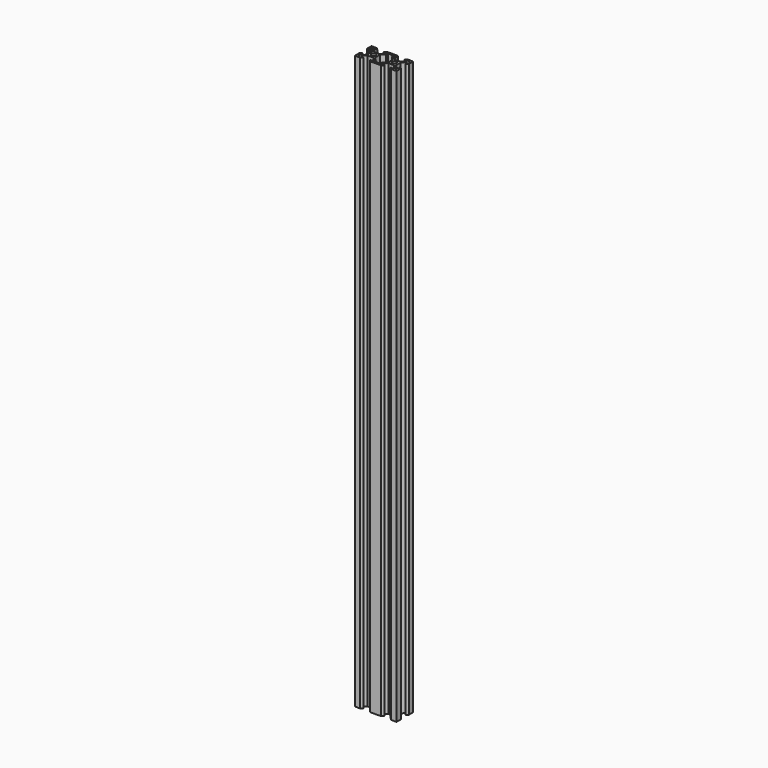
from build123d import *

# Parameters (mm, degrees)
F1_DEPTH = 1500
F3_DEPTH = 1500.001
F4_R     = 2.1
F5_DEPTH = 1500.001
F6_DEPTH = 950


with BuildPart() as f1:
    # F0 (on Top) → F1 (new body)
    with BuildSketch(Plane.XY):
        Polygon((0, 5.2), (0, 0), (5.2, 0), (7, 1.8), (4.4, 1.8), (4.4, 3.44), (7.16, 6.2), (12.84, 6.2), (15.6, 3.44), (15.6, 1.8), (13, 1.8), (14.8, 0), (25.2, 0), (27, 1.8), (24.4, 1.8), (24.4, 3.44), (27.16, 6.2), (32.84, 6.2), (35.6, 3.44), (35.6, 1.8), (33, 1.8), (34.8, 0), (40, 0), (40, 5.2), (38.2, 7), (38.2, 4.4), (36.56, 4.4), (33.8, 7.16), (33.8, 12.84), (36.56, 15.6), (38.2, 15.6), (38.2, 13), (40, 14.8), (40, 20), (34.8, 20), (33, 18.2), (35.6, 18.2), (35.6, 16.56), (32.84, 13.8), (27.16, 13.8), (24.4, 16.56), (24.4, 18.2), (27, 18.2), (25.2, 20), (14.8, 20), (13, 18.2), (15.6, 18.2), (15.6, 16.56), (12.84, 13.8), (7.16, 13.8), (4.4, 16.56), (4.4, 18.2), (7, 18.2), (5.2, 20), (0, 20), (0, 14.8), (1.8, 13), (1.8, 15.6), (3.44, 15.6), (6.2, 12.84), (6.2, 7.16), (3.44, 4.4), (1.8, 4.4), (1.8, 7), align=None)
    extrude(amount=F1_DEPTH)

    # F2 (on face) → F3 (cut, through all)
    with BuildSketch(Plane.XY.offset(1500)):
        Polygon((3.33, 18.2), (1.8, 18.2), (1.8, 16.67), align=None)
        Polygon((1.8, 3.33), (1.8, 1.8), (3.33, 1.8), align=None)
        Polygon((36.67, 1.8), (38.2, 1.8), (38.2, 3.33), align=None)
        Polygon((38.2, 16.67), (38.2, 18.2), (36.67, 18.2), align=None)
    extrude(amount=-F3_DEPTH, mode=Mode.SUBTRACT)

    # F4 (on face) → F5 (cut, through all)
    with BuildSketch(Plane.XY.offset(1500)):
        Polygon((22.9, 18.2), (17.1, 18.2), (17.1, 16.24), (13.7, 12.84), (13.7, 7.16), (17.1, 3.76), (17.1, 1.8), (22.9, 1.8), (22.9, 3.76), (26.3, 7.16), (26.3, 12.84), (22.9, 16.24), align=None)
        with Locations((30, 10)):
            Circle(F4_R)
        with Locations((10, 10)):
            Circle(F4_R)
    extrude(amount=-F5_DEPTH, mode=Mode.SUBTRACT)

    # F6 (cut): a face of the model
    f6_faces = [f1.faces().sort_by_distance(p)[0] for p in [
        (0.4472135955, 2.6, 1500),
    ]]
    extrude(f6_faces, amount=-F6_DEPTH, mode=Mode.SUBTRACT)


solid = f1.part
